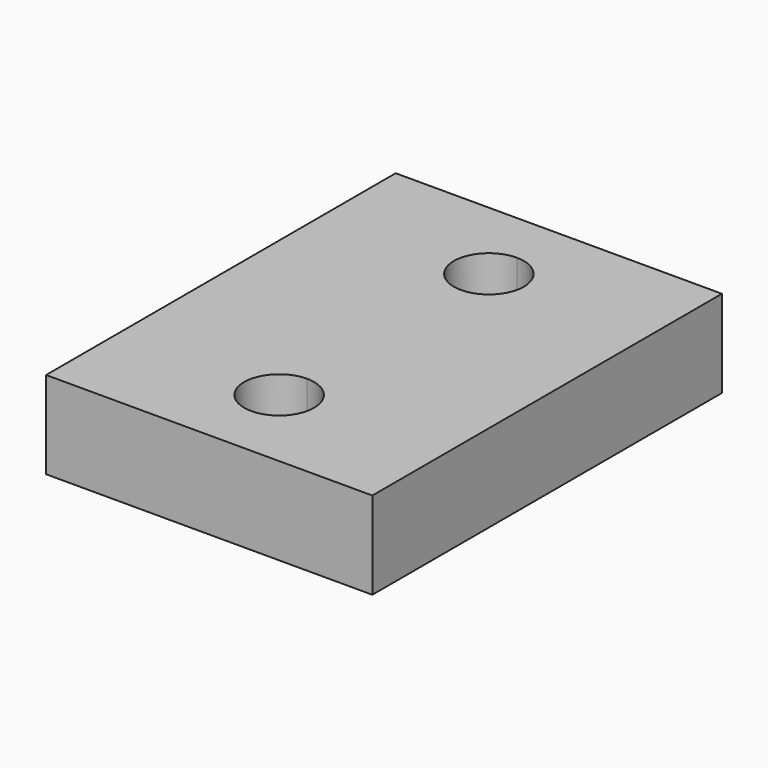
from build123d import *

# Parameters (mm, degrees)
F1_DEPTH = 3.81


with BuildPart() as f1:
    # F0 (on Top) → F1 (new body)
    with BuildSketch(Plane.XY):
        with BuildLine():
            Line((-7.112, 9.525), (0, 9.525))
            Line((0, 9.525), (0, 19.05))
            Line((0, 19.05), (-7.112, 19.05))
            Line((-7.112, 19.05), (-7.112, 16.764))
            ThreePointArc((-7.112, 16.764), (-6.034369, 16.317631), (-5.588, 15.24))
            ThreePointArc((-5.588, 15.24), (-6.034369, 14.162369), (-7.112, 13.716))
            Line((-7.112, 13.716), (-7.112, 9.525))
        make_face()
        with BuildLine():
            Line((-14.224, 0), (-7.112, 0))
            Line((-7.112, 0), (-7.112, 2.286))
            ThreePointArc((-7.112, 2.286), (-8.636, 3.81), (-7.112, 5.334))
            Line((-7.112, 5.334), (-7.112, 9.525))
            Line((-7.112, 9.525), (-7.112, 13.716))
            ThreePointArc((-7.112, 13.716), (-8.636, 15.24), (-7.112, 16.764))
            Line((-7.112, 16.764), (-7.112, 19.05))
            Line((-7.112, 19.05), (-14.224, 19.05))
            Line((-14.224, 19.05), (-14.224, 0))
        make_face()
        with BuildLine():
            Line((-7.112, 0), (0, 0))
            Line((0, 0), (0, 9.525))
            Line((0, 9.525), (-7.112, 9.525))
            Line((-7.112, 9.525), (-7.112, 5.334))
            ThreePointArc((-7.112, 5.334), (-6.034369, 4.887631), (-5.588, 3.81))
            ThreePointArc((-5.588, 3.81), (-6.034369, 2.732369), (-7.112, 2.286))
            Line((-7.112, 2.286), (-7.112, 0))
        make_face()
    extrude(amount=F1_DEPTH)


solid = f1.part
